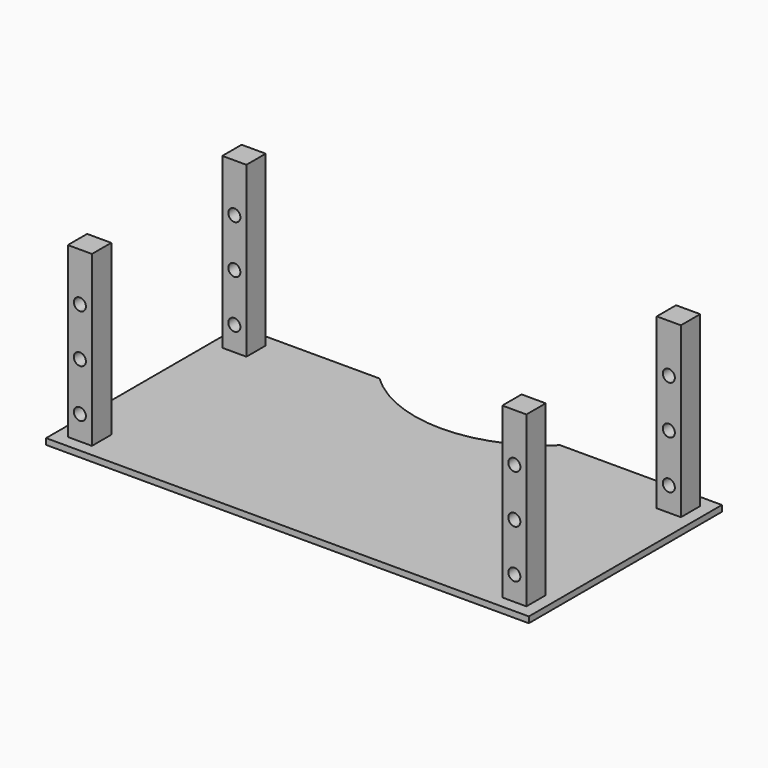
from build123d import *

# Parameters (mm, degrees)
F0_W      = 2000
F0_H      = 1000
F1_DEPTH  = 25
F2_W      = 100
F2_H      = 100
F3_DEPTH  = 700
F4_R      = 25
F5_DEPTH  = 100
F6_W      = 100
F6_H      = 100
F7_DEPTH  = 700
F8_R      = 25
F9_DEPTH  = 100
F10_W     = 100
F10_H     = 100
F11_DEPTH = 700
F12_R     = 25
F13_DEPTH = 100
F14_W     = 100
F14_H     = 100
F15_DEPTH = 700
F16_R     = 25
F17_DEPTH = 100
F19_DEPTH = 25


with BuildPart() as f1:
    # F0 (on Top) → F1 (new body)
    with BuildSketch(Plane.XY):
        with Locations((7.790016, -81.412016)):
            Rectangle(F0_W, F0_H)
    extrude(amount=F1_DEPTH)

    # F2 (on face) → F3 (join)
    with BuildSketch(Plane.XY.offset(25)):
        with Locations((-892.209984, 318.587984)):
            Rectangle(F2_W, F2_H)
    extrude(amount=F3_DEPTH)

    # F4 (on face) → F5 (cut)
    with BuildSketch(Plane(origin=(0, 368.587984, 0), x_dir=(-1, 0, 0), z_dir=(0, 1, 0))):
        with Locations((892.209984, 125)):
            Circle(F4_R)
        with Locations((892.209984, 325)):
            Circle(F4_R)
        with Locations((892.209984, 525)):
            Circle(F4_R)
    extrude(amount=-F5_DEPTH, mode=Mode.SUBTRACT)

    # F6 (on face) → F7 (join)
    with BuildSketch(Plane.XY.offset(25)):
        with Locations((907.790016, 318.587984)):
            Rectangle(F6_W, F6_H)
    extrude(amount=F7_DEPTH)

    # F8 (on face) → F9 (cut)
    with BuildSketch(Plane(origin=(0, 368.587984, 0), x_dir=(-1, 0, 0), z_dir=(0, 1, 0))):
        with Locations((-907.790016, 125)):
            Circle(F8_R)
        with Locations((-907.790016, 325)):
            Circle(F8_R)
        with Locations((-907.790016, 525)):
            Circle(F8_R)
    extrude(amount=-F9_DEPTH, mode=Mode.SUBTRACT)

    # F10 (on face) → F11 (join)
    with BuildSketch(Plane.XY.offset(25)):
        with Locations((-892.209984, -481.412016)):
            Rectangle(F10_W, F10_H)
    extrude(amount=F11_DEPTH)

    # F12 (on face) → F13 (cut)
    with BuildSketch(Plane.XZ.offset(531.412016)):
        with Locations((-892.209984, 525)):
            Circle(F12_R)
        with Locations((-892.209984, 325)):
            Circle(F12_R)
        with Locations((-892.209984, 125)):
            Circle(F12_R)
    extrude(amount=-F13_DEPTH, mode=Mode.SUBTRACT)

    # F14 (on face) → F15 (join)
    with BuildSketch(Plane.XY.offset(25)):
        with Locations((907.790016, -481.412016)):
            Rectangle(F14_W, F14_H)
    extrude(amount=F15_DEPTH)

    # F16 (on face) → F17 (cut)
    with BuildSketch(Plane.XZ.offset(531.412016)):
        with Locations((907.790016, 525)):
            Circle(F16_R)
        with Locations((907.790016, 325)):
            Circle(F16_R)
        with Locations((907.790016, 125)):
            Circle(F16_R)
    extrude(amount=-F17_DEPTH, mode=Mode.SUBTRACT)

    # F18 (on face) → F19 (cut)
    with BuildSketch(Plane(origin=(0, 0, 0), x_dir=(1, 0, 0), z_dir=(0, 0, -1))):
        with BuildLine():
            Line((-411.143931, -418.587984), (337.688116, -418.587984))
            ThreePointArc((337.688116, -418.587984), (-36.727907, -269.433703), (-411.143931, -418.587984))
        make_face()
    extrude(amount=-F19_DEPTH, mode=Mode.SUBTRACT)


solid = f1.part
